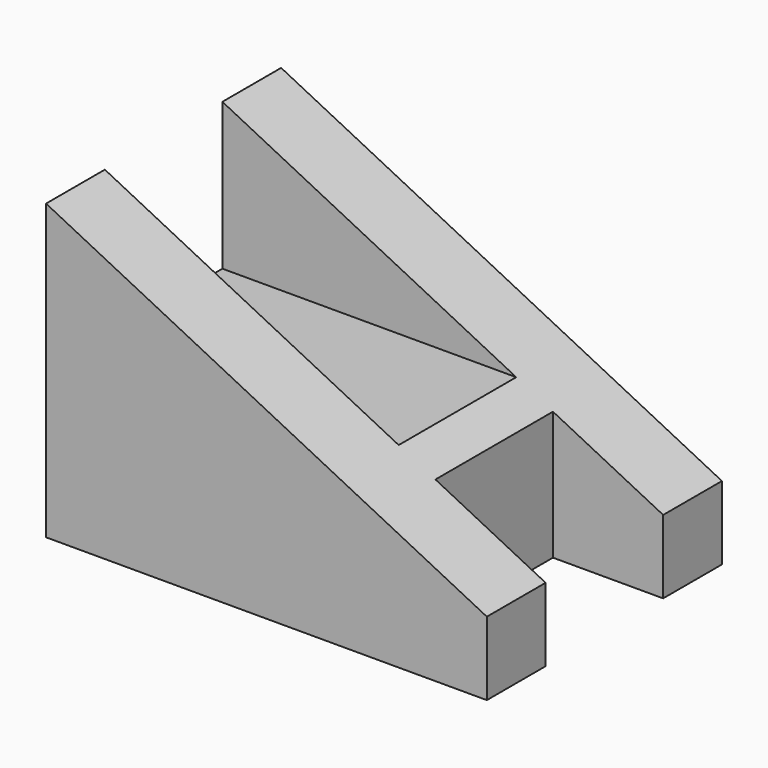
from build123d import *

# Parameters (mm, degrees)
F1_DEPTH = 20
F2_W     = 10
F2_H     = 10
F3_DEPTH = 25
F4_W     = 7.5
F4_H     = 10
F5_DEPTH = 25


with BuildPart() as f1:
    # F0 (on Front) → F1 (new body)
    with BuildSketch(Plane.XZ):
        Polygon((0, 20), (0, 0), (30, 0), (30, 5), align=None)
    extrude(amount=-F1_DEPTH)

    # F2 (on Right) → F3 (cut)
    with BuildSketch(Plane.YZ):
        with Locations((10, 15)):
            Rectangle(F2_W, F2_H)
    extrude(amount=F3_DEPTH, mode=Mode.SUBTRACT)

    # F4 (on Top) → F5 (cut)
    with BuildSketch(Plane.XY):
        with Locations((26.25, 10)):
            Rectangle(F4_W, F4_H)
    extrude(amount=F5_DEPTH, mode=Mode.SUBTRACT)


solid = f1.part
